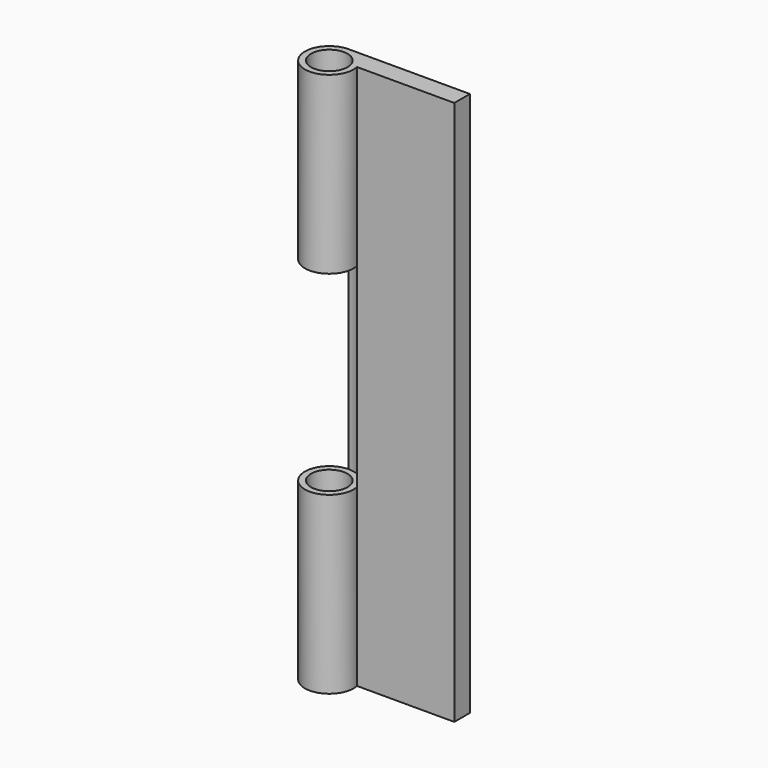
from build123d import *

# Parameters (mm, degrees)
F0_R     = 5.953125
F1_DEPTH = 177.8
F3_R     = 7.9375
F4_DEPTH = 31.75


with BuildPart() as f1:
    # F0 (on Top) → F1 (new body)
    with BuildSketch(Plane.XY):
        with BuildLine():
            Line((0, -6.35), (0, 0))
            Line((0, 0), (-39.5271299333, 0))
            ThreePointArc((-39.5271299333, 0), (-44.5472457189, -14.0858610621), (-31.75, -6.35))
            Line((-31.75, -6.35), (0, -6.35))
        make_face()
        with Locations((-39.5271299333, -7.9375)):
            Circle(F0_R, mode=Mode.SUBTRACT)
    extrude(amount=F1_DEPTH)

    # F3 (on mid) → F4 (cut, symmetric)
    with BuildSketch(Plane.XY.offset(88.9)):
        with Locations((-39.5271299333, -7.9375)):
            Circle(F3_R)
    extrude(amount=F4_DEPTH, both=True, mode=Mode.SUBTRACT)


solid = f1.part
